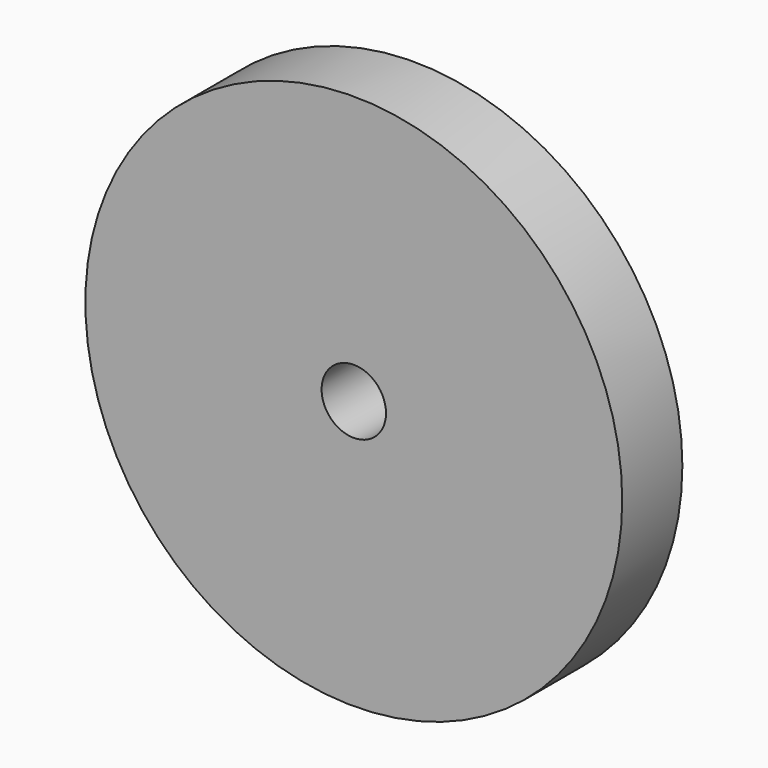
from build123d import *

# Parameters (mm, degrees)
SKETCH_R   = 250
SKETCH_R_2 = 30
PAD_DEPTH  = 70


with BuildPart() as part:
    # Sketch → Pad (new body)
    with BuildSketch(Plane.XZ):
        Circle(SKETCH_R)
        Circle(SKETCH_R_2, mode=Mode.SUBTRACT)
    extrude(amount=PAD_DEPTH)


solid = part.part
